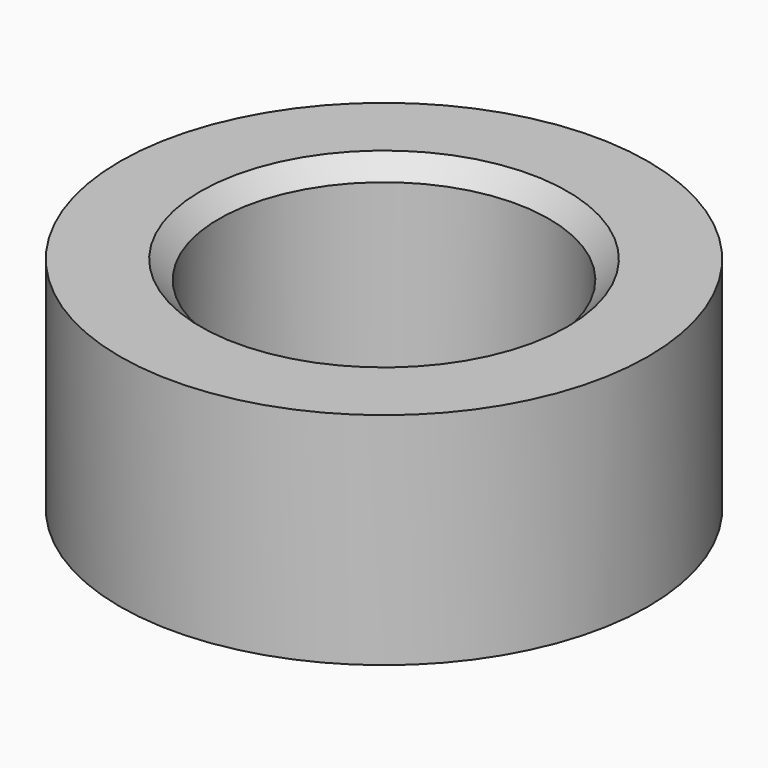
from build123d import *

# Parameters (mm, degrees)
F0_R     = 7.2
F0_R_2   = 4.5
F1_DEPTH = 6
F2_SIZE2 = 0.5
F2_SIZE  = 0.5


with BuildPart() as f1:
    # F0 (on Top) → F1 (new body)
    with BuildSketch(Plane.XY):
        Circle(F0_R)
        Circle(F0_R_2, mode=Mode.SUBTRACT)
    extrude(amount=F1_DEPTH)

    # F2
    f2_edges = [f1.edges().sort_by_distance(p)[0] for p in [
        (-4.5, 0, 6),
    ]]
    chamfer(f2_edges, length=F2_SIZE, length2=F2_SIZE2)


solid = f1.part
